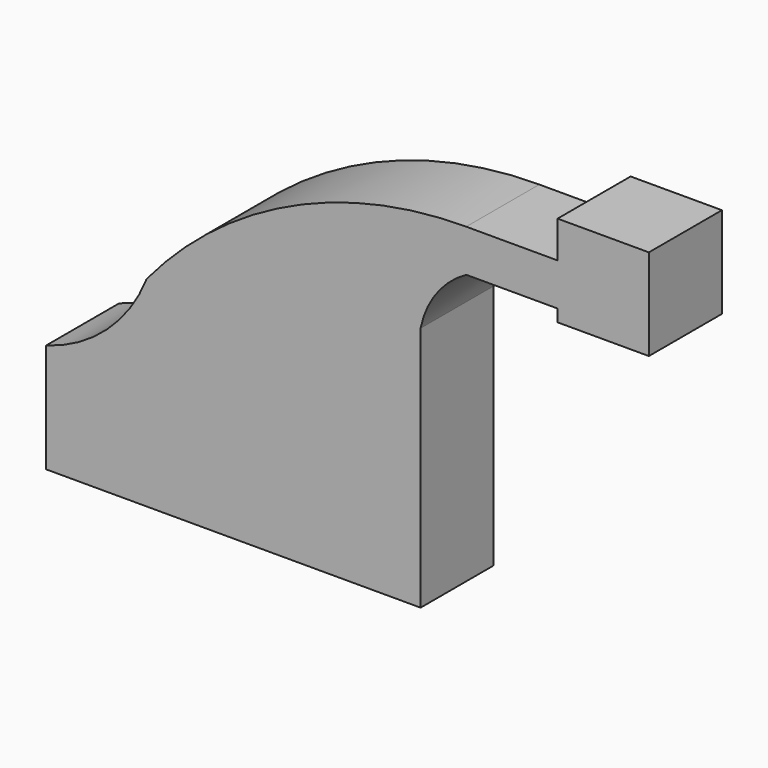
from build123d import *

# Parameters (mm, degrees)
F1_DEPTH = 25.4


with BuildPart() as f1:
    # F0 (on Front) → F1 (new body)
    with BuildSketch(Plane.XZ):
        Polygon((0, -30.327365), (0, 0), (-76.2, 0), (-104.173273, 0), (-104.173273, -30.327365), align=None)
        Polygon((-76.2, 0), (0, 0), (0, 25.4), (-11.711787, 25.4), (-76.2, 25.4), align=None)
        with BuildLine():
            Line((-104.173273, 0), (-76.2, 0))
            Line((-76.2, 0), (-76.2, 25.4))
            ThreePointArc((-76.2, 25.4), (-87.233659, 9.447856), (-104.173273, 0))
        make_face()
        with BuildLine():
            Line((-11.711787, 25.4), (0, 25.4))
            Line((0, 25.4), (0, 38.1))
            ThreePointArc((0, 38.1), (4.447352, 48.115325), (12.7, 55.325005))
            Line((12.7, 55.325005), (38.1, 55.325005))
            Line((38.1, 55.325005), (38.1, 67.100359))
            Line((38.1, 67.100359), (12.7, 67.100359))
            ThreePointArc((12.7, 67.100359), (-3.36853, 55.851652), (-11.711787, 38.1))
            Line((-11.711787, 38.1), (-11.711787, 25.4))
        make_face()
        with BuildLine():
            ThreePointArc((12.7, 67.100359), (-36.397174, 56.157378), (-76.2, 25.4))
            Line((-76.2, 25.4), (-11.711787, 25.4))
            Line((-11.711787, 25.4), (-11.711787, 38.1))
            ThreePointArc((-11.711787, 38.1), (-3.36853, 55.851652), (12.7, 67.100359))
        make_face()
        Polygon((38.1, 77.336693), (38.1, 67.100359), (38.1, 55.325005), (38.1, 51.936693), (63.5, 51.936693), (63.5, 77.336693), align=None)
    extrude(amount=F1_DEPTH)


solid = f1.part
